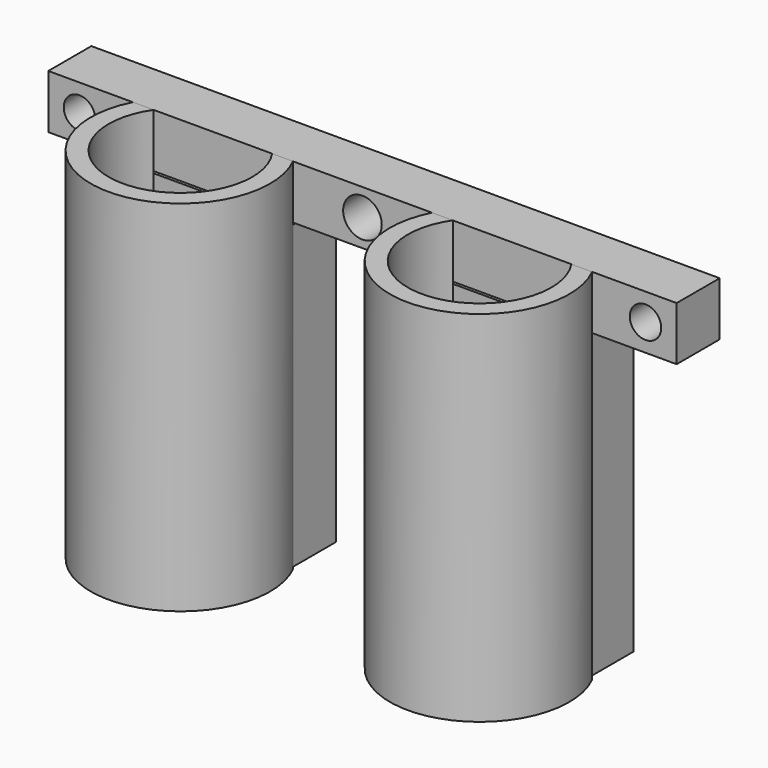
from build123d import *

# Parameters (mm, degrees)
F0_W      = 88.9
F0_H      = 7.62
F1_DEPTH  = 7.62
F3_DEPTH  = 50.8
F4_W      = 22.391876
F4_H      = 42.59918
F5_DEPTH  = 7.62
F6_R      = 11.630376
F7_DEPTH  = 2.54
F8_R      = 2.2225
F9_DEPTH  = 7.621
F10_R     = 2.733138
F11_DEPTH = 25.4


with BuildPart() as f1:
    # F0 (on Front) → F1 (new body)
    with BuildSketch(Plane.XZ):
        Rectangle(F0_W, F0_H)
    extrude(amount=F1_DEPTH)

    # F8 (on face) → F9 (cut, through all)
    with BuildSketch(Plane.XZ.offset(7.62)):
        with Locations((-40.042471, 0)):
            Circle(F8_R)
        with Locations((40.042471, 0)):
            Circle(F8_R)
    extrude(amount=-F9_DEPTH, mode=Mode.SUBTRACT)

    # F10 (on face) → F11 (cut)
    with BuildSketch(Plane.XZ.offset(7.62)):
        Circle(F10_R)
    extrude(amount=-F11_DEPTH, mode=Mode.SUBTRACT)


with BuildPart() as f3:
    # F2 (on face) → F3 (new body)
    with BuildSketch(Plane.XY.offset(3.81)):
        with BuildLine():
            Line((-29.551175, -7.62), (-32.495528, -7.62))
            ThreePointArc((-32.495528, -7.62), (-21.163055, -26.052804), (-9.830581, -7.62))
            Line((-9.830581, -7.62), (-12.774935, -7.62))
            ThreePointArc((-12.774935, -7.62), (-21.163055, -23.512804), (-29.551175, -7.62))
        make_face()
        with BuildLine():
            Line((12.774935, -7.62), (9.830581, -7.62))
            ThreePointArc((9.830581, -7.62), (21.163055, -26.052804), (32.495528, -7.62))
            Line((32.495528, -7.62), (29.551175, -7.62))
            ThreePointArc((29.551175, -7.62), (21.163055, -23.512804), (12.774935, -7.62))
        make_face()
    extrude(amount=-F3_DEPTH)

    # F4 (on Front) → F5 (join)
    with BuildSketch(Plane.XZ):
        with Locations((-21.026519, -25.395665)):
            Rectangle(F4_W, F4_H)
        with Locations((21.026519, -25.395665)):
            Rectangle(F4_W, F4_H)
    extrude(amount=F5_DEPTH)


with BuildPart() as f7:
    # F6 (on face) → F7 (new body)
    with BuildSketch(Plane(origin=(0, 0, -46.99), x_dir=(1, 0, 0), z_dir=(0, 0, -1))):
        with Locations((21.163055, 13.352804)):
            Circle(F6_R)
        with Locations((-21.163055, 13.352804)):
            Circle(F6_R)
    extrude(amount=-F7_DEPTH)


solid = Compound([f1.part, f3.part, f7.part])
